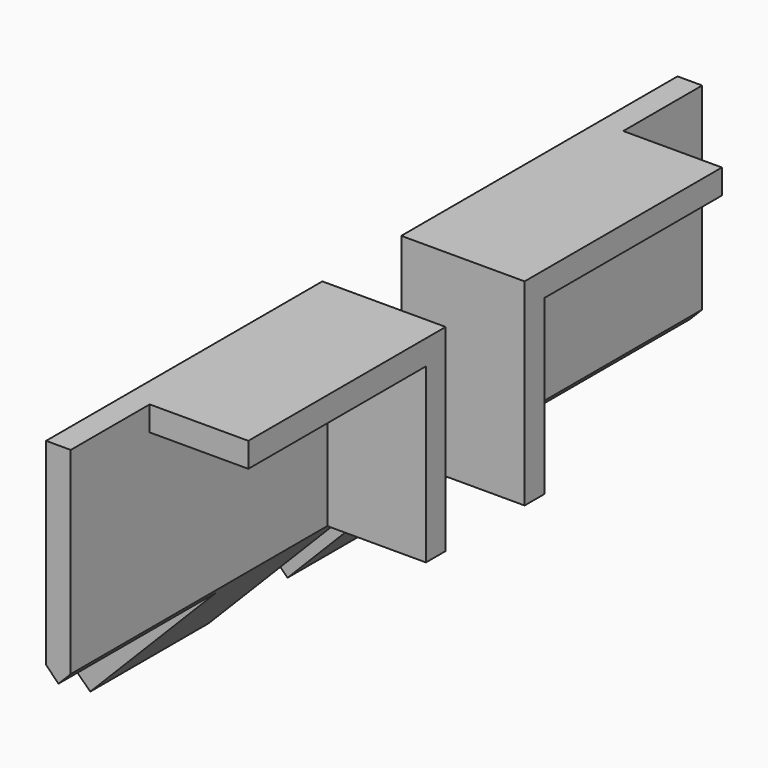
from build123d import *

# Parameters (mm, degrees)
F1_DEPTH = 88.9
F2_W     = 50.8
F2_H     = 46.348908
F3_DEPTH = 25.4
F4_W     = 6.35
F4_H     = 50.8
F5_DEPTH = 25.4
F6_W     = 57.15
F6_H     = 6.35
F7_DEPTH = 25.4


with BuildPart() as f1:
    # F0 (on Front) → F1 (new body)
    with BuildSketch(Plane.XZ):
        Polygon((0, 50.8), (0, 0), (-32.773627, -32.773627), (-29.271521, -36.218051), (6.35, 0), (6.35, 50.8), align=None)
    extrude(amount=F1_DEPTH)

    # F2 (on face) → F3 (cut)
    with BuildSketch(Plane(origin=(0, 0, 0), x_dir=(0, -1, 0), z_dir=(-0.707107, 0, 0.707107))):
        with Locations((63.5, -23.174454)):
            Rectangle(F2_W, F2_H)
    extrude(amount=-F3_DEPTH, mode=Mode.SUBTRACT)

    # F4 (on face) → F5 (join)
    with BuildSketch(Plane.YZ.offset(6.35)):
        with Locations((-3.175, 25.4)):
            Rectangle(F4_W, F4_H)
    extrude(amount=F5_DEPTH)

    # F6 (on face) → F7 (join)
    with BuildSketch(Plane.YZ.offset(6.35)):
        with Locations((-34.925, 47.625)):
            Rectangle(F6_W, F6_H)
    extrude(amount=F7_DEPTH)


with BuildPart() as f8_1:
    # F8: instance of F1
    add(f1.part.mirror(Plane.XZ))


with BuildPart() as f8_1_1:
    # F9: moved
    add(f8_1.part.moved(Location((0, 25.4, 0))))


solid = Compound([f1.part, f8_1_1.part])
